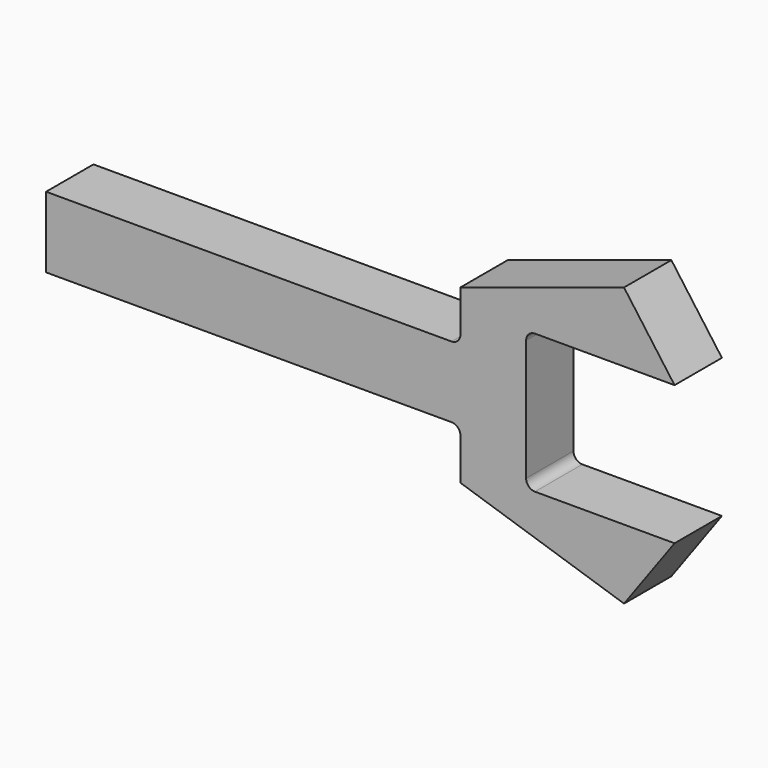
from build123d import *

# Parameters (mm, degrees)
F1_DEPTH = 25.4


with BuildPart() as f1:
    # F0 (on Front) → F1 (new body)
    with BuildSketch(Plane.XZ):
        with BuildLine():
            Line((-50.8, 36.90836), (-50.8, 19.05))
            ThreePointArc((-50.8, 19.05), (-51.915923, 16.355923), (-54.61, 15.24))
            Line((-54.61, 15.24), (-228.6, 15.24))
            Line((-228.6, 15.24), (-228.6, -15.24))
            Line((-228.6, -15.24), (-54.61, -15.24))
            ThreePointArc((-54.61, -15.24), (-51.915923, -16.355923), (-50.8, -19.05))
            Line((-50.8, -19.05), (-50.8, -36.90836))
            Line((-50.8, -36.90836), (19.403873, -59.718982))
            Line((19.403873, -59.718982), (41.098063, -29.859491))
            Line((41.098063, -29.859491), (-18.792776, -29.859491))
            ThreePointArc((-18.792776, -29.859491), (-21.486853, -28.743568), (-22.602776, -26.049491))
            Line((-22.602776, -26.049491), (-22.602776, 26.049491))
            ThreePointArc((-22.602776, 26.049491), (-21.486853, 28.743568), (-18.792776, 29.859491))
            Line((-18.792776, 29.859491), (41.098063, 29.859491))
            Line((41.098063, 29.859491), (19.403873, 59.718982))
            Line((19.403873, 59.718982), (-50.8, 36.90836))
        make_face()
    extrude(amount=F1_DEPTH)


solid = f1.part
